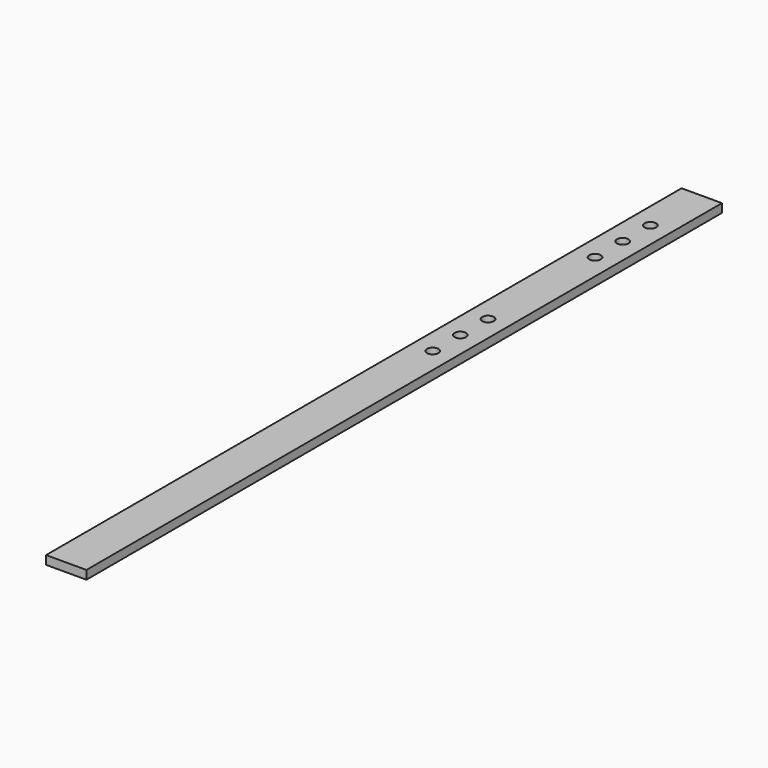
from build123d import *

# Parameters (mm, degrees)
F0_W     = 88.9
F0_H     = 1751.0252
F0_R     = 12.70573
F1_DEPTH = 19.05


with BuildPart() as f1:
    # F0 (on Top) → F1 (new body)
    with BuildSketch(Plane.XY):
        with Locations((-1823.700951, -1238.163742)):
            Rectangle(F0_W, F0_H)
        with Locations((-1823.700951, -1103.936421)):
            Circle(F0_R, mode=Mode.SUBTRACT)
        with Locations((-1823.700951, -1027.703278)):
            Circle(F0_R, mode=Mode.SUBTRACT)
        with Locations((-1823.700951, -951.470559)):
            Circle(F0_R, mode=Mode.SUBTRACT)
        with Locations((-1823.700951, -656.675808)):
            Circle(F0_R, mode=Mode.SUBTRACT)
        with Locations((-1823.700951, -580.474907)):
            Circle(F0_R, mode=Mode.SUBTRACT)
        with Locations((-1823.700951, -504.173539)):
            Circle(F0_R, mode=Mode.SUBTRACT)
    extrude(amount=F1_DEPTH)


solid = f1.part
